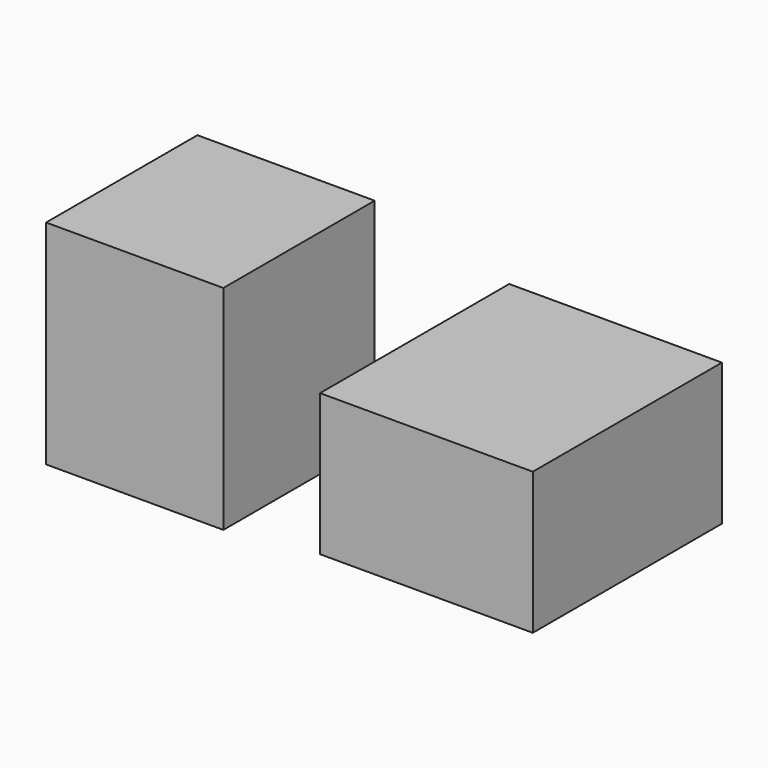
from build123d import *

# Parameters (mm, degrees)
F0_W     = 762
F0_H     = 812.8
F1_DEPTH = 1
F2_W     = 762
F2_H     = 812.8
F3_DEPTH = 914.4
F4_W     = 914.4
F4_H     = 1016
F5_DEPTH = 609.6


with BuildPart() as f1:
    # F0 (on Top) → F1 (new body)
    with BuildSketch(Plane.XY):
        with Locations((301.311026, 341.759515)):
            Rectangle(F0_W, F0_H)
    extrude(amount=F1_DEPTH)


with BuildPart() as f3:
    # F2 (on face) → F3 (new body)
    with BuildSketch(Plane.XY.offset(1)):
        with Locations((301.311026, 341.759515)):
            Rectangle(F2_W, F2_H)
    extrude(amount=F3_DEPTH)


with BuildPart() as f5:
    # F4 (on Top) → F5 (new body)
    with BuildSketch(Plane.XY):
        with Locations((1503.314326, 508)):
            Rectangle(F4_W, F4_H)
    extrude(amount=F5_DEPTH)


solid = Compound([f1.part, f3.part, f5.part])
